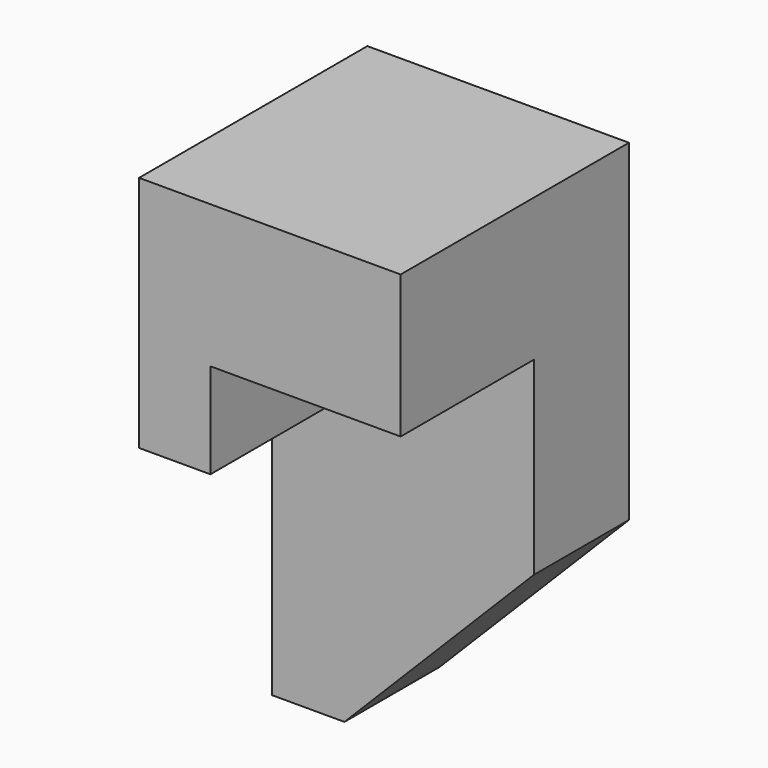
from build123d import *

# Parameters (mm, degrees)
F0_W     = 1397
F0_H     = 2794
F1_DEPTH = 635
F2_W     = 1016
F2_H     = 762
F3_DEPTH = 889
F4_W     = 381
F4_H     = 1270
F5_DEPTH = 889
F8_DEPTH = 949.96


with BuildPart() as f1:
    # F0 (on Front) → F1 (new body)
    with BuildSketch(Plane.XZ):
        with Locations((-698.5, 1397)):
            Rectangle(F0_W, F0_H)
    extrude(amount=F1_DEPTH)

    # F2 (on face) → F3 (join)
    with BuildSketch(Plane.XZ.offset(635)):
        with Locations((-508, 2413)):
            Rectangle(F2_W, F2_H)
    extrude(amount=F3_DEPTH)

    # F4 (on face) → F5 (join)
    with BuildSketch(Plane.XZ.offset(635)):
        with Locations((-1206.5, 2159)):
            Rectangle(F4_W, F4_H)
    extrude(amount=F5_DEPTH)

    # F7 (on face) → F8 (cut)
    with BuildSketch(Plane.XZ.offset(635)):
        Polygon((0, 1020.3515291214), (-1011.4349126816, 0), (0, 0), align=None)
    extrude(amount=-F8_DEPTH, mode=Mode.SUBTRACT)


solid = f1.part
